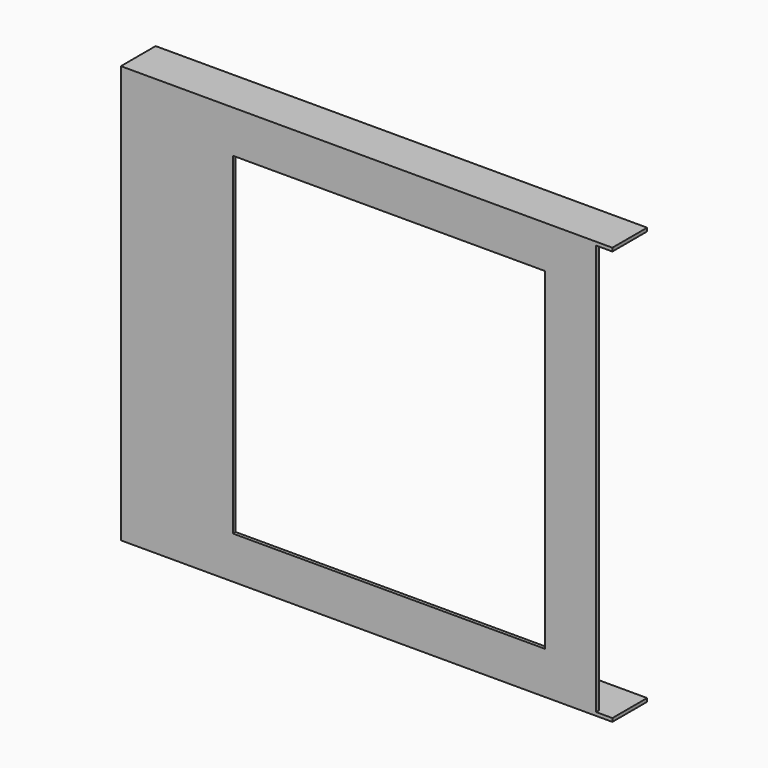
from build123d import *

# Parameters (mm, degrees)
F0_W     = 138
F0_H     = 121
F0_W_2   = 92
F0_H_2   = 98
F1_DEPTH = 12.8
F2_DEPTH = 11.8
F3_DEPTH = 12.8
F0_W_3   = 4.8031793237
F0_H_3   = 1
F0_W_4   = 4.8
F4_DEPTH = 12.8


with BuildPart() as f1:
    # F0 (on Front) → F1 (new body)
    with BuildSketch(Plane.XZ):
        with Locations((-3.5, 0)):
            Rectangle(F0_W, F0_H)
        with Locations((4.5, 0)):
            Rectangle(F0_W_2, F0_H_2, mode=Mode.SUBTRACT)
        with Locations((4.5, 0)):
            Rectangle(F0_W_2, F0_H_2)
        Polygon((-74.5, 61.5), (-74.5, -61.5), (65.5, -61.5), (65.5, -60.5), (-72.5, -60.5), (-72.5, 60.5), (65.5, 60.5), (65.5, 61.5), align=None)
    extrude(amount=F1_DEPTH)

    # F0 (on Front) → F2 (cut)
    with BuildSketch(Plane.XZ):
        with Locations((-3.5, 0)):
            Rectangle(F0_W, F0_H)
        with Locations((4.5, 0)):
            Rectangle(F0_W_2, F0_H_2, mode=Mode.SUBTRACT)
        with Locations((4.5, 0)):
            Rectangle(F0_W_2, F0_H_2)
    extrude(amount=F2_DEPTH, mode=Mode.SUBTRACT)

    # F0 (on Front) → F3 (cut)
    with BuildSketch(Plane.XZ):
        with Locations((4.5, 0)):
            Rectangle(F0_W_2, F0_H_2)
    extrude(amount=F3_DEPTH, mode=Mode.SUBTRACT)

    # F0 (on Front) → F4 (join)
    with BuildSketch(Plane.XZ):
        with Locations((67.9015896618, 61)):
            Rectangle(F0_W_3, F0_H_3)
        with Locations((67.9, -61)):
            Rectangle(F0_W_4, F0_H_3)
    extrude(amount=F4_DEPTH)


solid = f1.part
